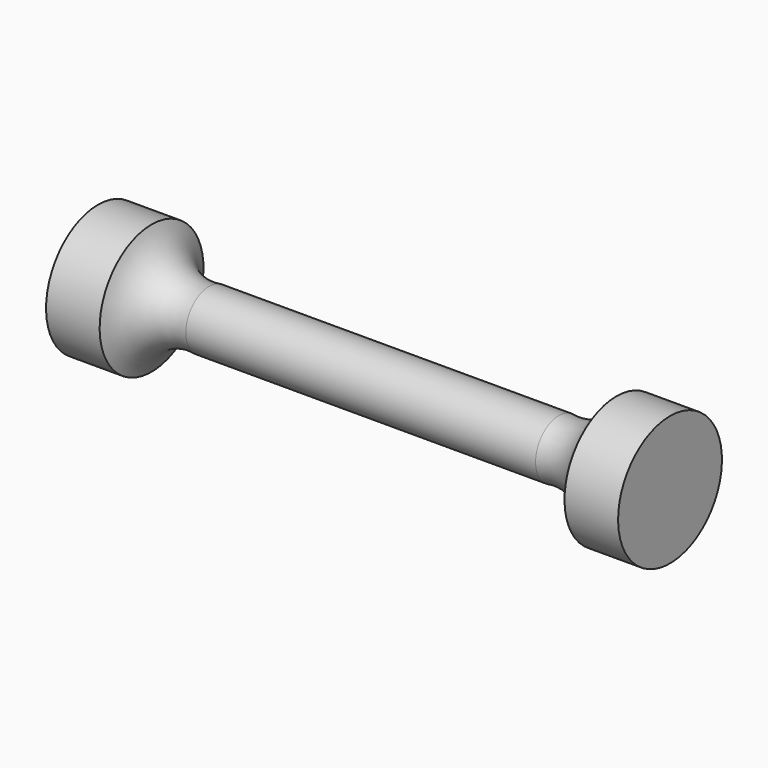
from build123d import *


with BuildPart() as f1:
    # F0 (on Front) → F1 (revolve)
    with BuildSketch(Plane.XZ):
        with BuildLine():
            Line((-44.160004, 0), (0, 0))
            Line((0, 0), (44.160004, 0))
            Line((44.160004, 0), (44.160004, 10.02))
            Line((44.160004, 10.02), (35.88767, 10.02))
            ThreePointArc((35.88767, 10.02), (32.47126, 5.605758), (27, 4.5))
            Line((27, 4.5), (0, 4.5))
            Line((0, 4.5), (-27, 4.5))
            ThreePointArc((-27, 4.5), (-32.47126, 5.605758), (-35.88767, 10.02))
            Line((-35.88767, 10.02), (-44.160004, 10.02))
            Line((-44.160004, 10.02), (-44.160004, 0))
        make_face()
    revolve(axis=Axis((-22.080002, 0, 0), (-1, 0, 0)))


solid = f1.part
